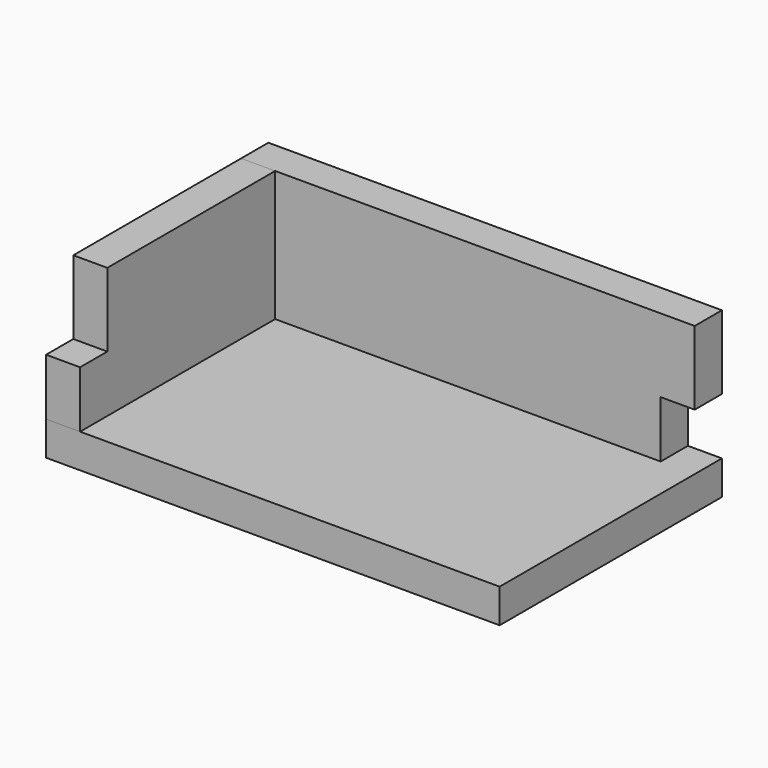
from build123d import *

# Parameters (mm, degrees)
SKETCH_W        = 80
SKETCH_H        = 49
PAD_DEPTH       = 6
SKETCH001_W     = 80
SKETCH001_H     = 23
PAD001_DEPTH    = 6
SKETCH002_W     = 6
SKETCH002_H     = 10
POCKET_DEPTH    = 6.001
SKETCH003_W     = 49
SKETCH003_H     = 23
PAD002_DEPTH    = 6
SKETCH004_W     = 6
SKETCH004_H     = 13
POCKET001_DEPTH = 6.001


with BuildPart() as base:
    # Sketch → Pad (new body)
    with BuildSketch(Plane.XY):
        with Locations((0, 24.5)):
            Rectangle(SKETCH_W, SKETCH_H)
    extrude(amount=PAD_DEPTH)


with BuildPart() as side_long_clone:
    # Sketch001 → Pad001 (new body)
    with BuildSketch(Plane.XZ):
        with Locations((0, 11.5)):
            Rectangle(SKETCH001_W, SKETCH001_H)
    extrude(amount=PAD001_DEPTH)

    # Sketch002 (on Face6 of Pad001) → Pocket (cut, through all)
    with BuildSketch(Plane.XZ.offset(6)):
        with Locations((-37, 5)):
            Rectangle(SKETCH002_W, SKETCH002_H)
        with Locations((37, 5)):
            Rectangle(SKETCH002_W, SKETCH002_H)
    extrude(amount=-POCKET_DEPTH, mode=Mode.SUBTRACT)


with BuildPart() as side_long_clone_1:
    # Body001 placement: moved
    add(side_long_clone.part.moved(Location((0, 6, 6))))


with BuildPart() as side_long_clone_2:
    # Body002 placement: moved
    add(side_long_clone_1.part.moved(Location((0, 43, 0))))


with BuildPart() as side_small_clone:
    # Sketch003 → Pad002 (new body)
    with BuildSketch(Plane.YZ):
        with Locations((0, 11.5)):
            Rectangle(SKETCH003_W, SKETCH003_H)
    extrude(amount=PAD002_DEPTH)

    # Sketch004 (on Face6 of Pad002) → Pocket001 (cut, through all)
    with BuildSketch(Plane.YZ.offset(6)):
        with Locations((-21.5, 16.5)):
            Rectangle(SKETCH004_W, SKETCH004_H)
        with Locations((21.5, 16.5)):
            Rectangle(SKETCH004_W, SKETCH004_H)
    extrude(amount=-POCKET001_DEPTH, mode=Mode.SUBTRACT)


with BuildPart() as side_small_clone_1:
    # Body003 placement: moved
    add(side_small_clone.part.moved(Location((34, 24.5, 6))))


with BuildPart() as side_small_clone_2:
    # Clone001 placement: moved
    add(side_small_clone_1.part.moved(Location((0, 0.5, 0))))


with BuildPart() as side_small_clone_3:
    # Body004 placement: moved
    add(side_small_clone_2.part.moved(Location((-74, -0.5, 0))))


solid = Compound([base.part, side_long_clone_2.part, side_small_clone_3.part])
